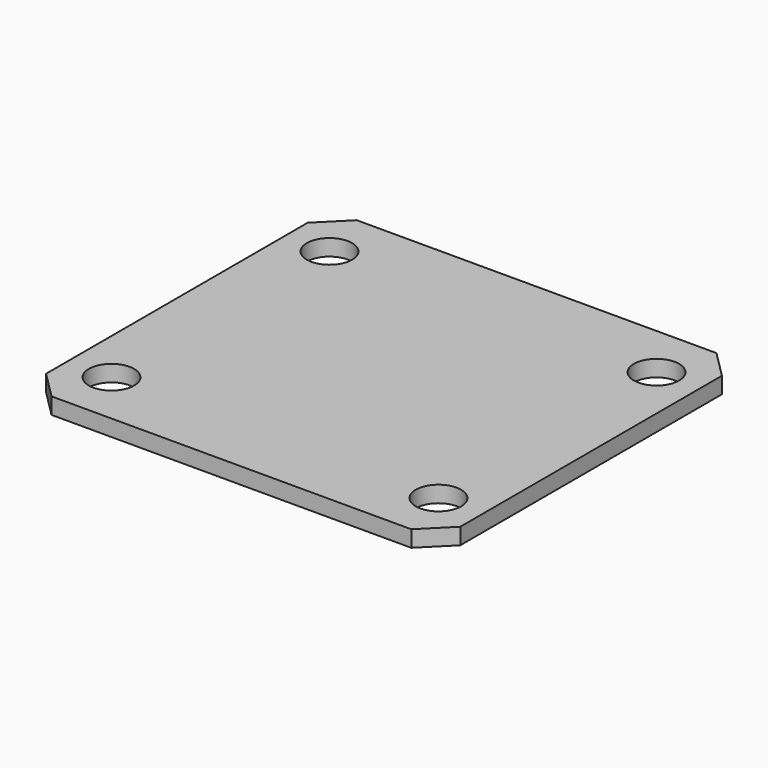
from build123d import *

# Parameters (mm, degrees)
F0_W     = 76
F0_H     = 70
F1_DEPTH = 3
F3_D     = 8.3
F4_SIZE  = 5


with BuildPart() as f1:
    # F0 (on Top) → F1 (new body)
    with BuildSketch(Plane.XY):
        Rectangle(F0_W, F0_H)
    extrude(amount=-F1_DEPTH)

    # F3 (through all)
    with Locations(Plane.XY):
        with Locations((-30, 25), (30, 25), (30, -25), (-30, -25)):
            Hole(F3_D / 2)

    # F4
    f4_edges = [f1.edges().sort_by_distance(p)[0] for p in [
        (-38, 35, -1.5),
        (-38, -35, -1.5),
        (38, -35, -1.5),
        (38, 35, -1.5),
    ]]
    chamfer(f4_edges, length=F4_SIZE)


solid = f1.part
